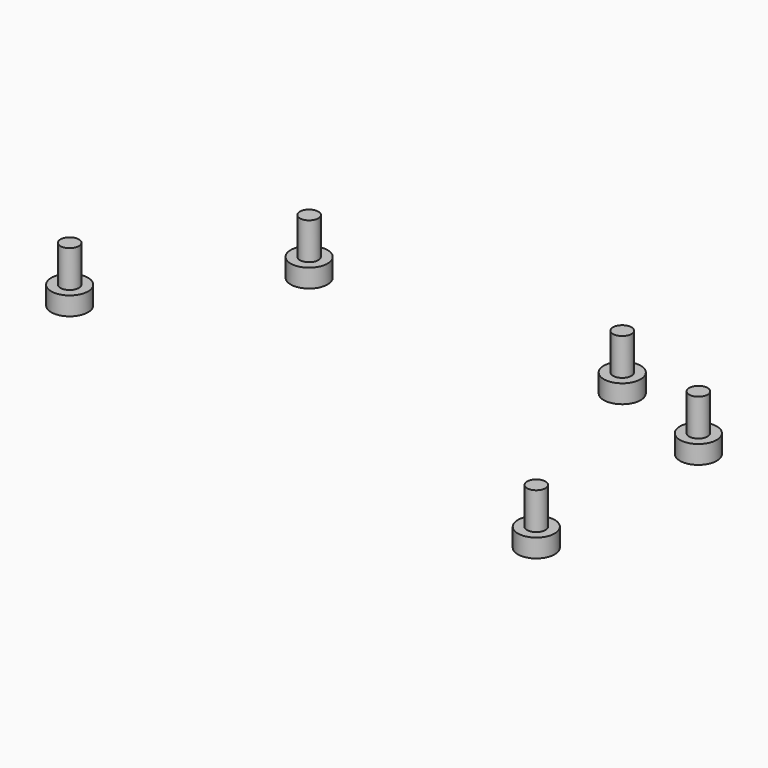
from build123d import *

# Parameters (mm, degrees)
SKETCH011_R             = 1.5
EXTRUDE_SKETCH011_DEPTH = 6
SKETCH010_R             = 3
EXTRUDE_SKETCH010_DEPTH = 3


with BuildPart() as sketch011_extrude:
    # Sketch011 → Extrude_Sketch011 (new body)
    with BuildSketch(Plane.XY):
        with Locations((3, 57)):
            Circle(SKETCH011_R)
        with Locations((22, 82)):
            Circle(SKETCH011_R)
        with Locations((73, 82)):
            Circle(SKETCH011_R)
        with Locations((91, 75)):
            Circle(SKETCH011_R)
        with Locations((91, 42)):
            Circle(SKETCH011_R)
    extrude(amount=EXTRUDE_SKETCH011_DEPTH)


with BuildPart() as obj1:
    # Sketch010 → Extrude_Sketch010 (new body)
    with BuildSketch(Plane(origin=(0, 0, 0), x_dir=(1, 0, 0), z_dir=(0, 0, -1))):
        with Locations((3, -57)):
            Circle(SKETCH010_R)
        with Locations((91, -42)):
            Circle(SKETCH010_R)
        with Locations((91, -75)):
            Circle(SKETCH010_R)
        with Locations((73, -82)):
            Circle(SKETCH010_R)
        with Locations((22, -82)):
            Circle(SKETCH010_R)
    extrude(amount=EXTRUDE_SKETCH010_DEPTH)

    # Fusion001003: union Sketch011_Extrude
    add(sketch011_extrude.part)


solid = obj1.part
